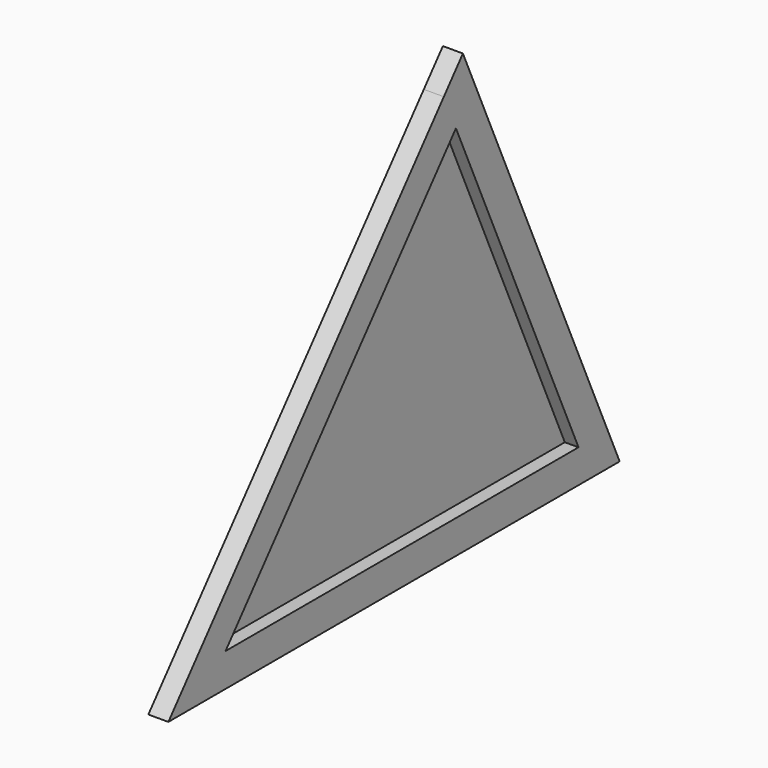
from build123d import *

# Parameters (mm, degrees)
F1_DEPTH = 57
F2_DEPTH = 18


with BuildPart() as f1:
    # F0 (on Right) → F1 (new body)
    with BuildSketch(Plane.YZ):
        Polygon((-810.435017, -403.071099), (-730.730017, -308.071099), (89.475385, 669.527712), (46.404024, 765.99523), (-934.442626, -403.071099), align=None)
        Polygon((89.475385, 669.527712), (525.959213, -308.071099), (568.375349, -403.071099), (672.414421, -403.071099), (114.307374, 846.928901), (46.404024, 765.99523), align=None)
        Polygon((568.375349, -403.071099), (525.959213, -308.071099), (-730.730017, -308.071099), (-810.435017, -403.071099), align=None)
    extrude(amount=F1_DEPTH)

    # F0 (on Right) → F2 (join)
    with BuildSketch(Plane.YZ):
        Polygon((-730.730017, -308.071099), (525.959213, -308.071099), (89.475385, 669.527712), align=None)
    extrude(amount=F2_DEPTH)


solid = f1.part
